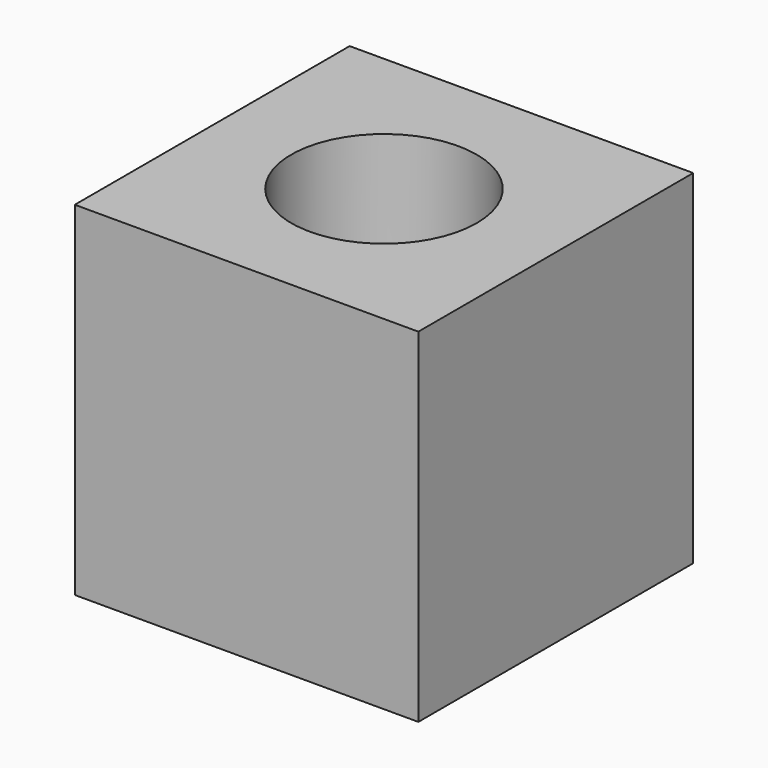
from build123d import *

# Parameters (mm, degrees)
CYLINDER002002001001001001001001006_R     = 1.35
CYLINDER002002001001001001001001006_DEPTH = 5
BOX005_W                                  = 5
BOX005_H                                  = 5
BOX005_DEPTH                              = 5


with BuildPart() as cylinder002002001001001001001001006:
    # Cylinder002002001001001001001001006 → Cylinder002002001001001001001001006 (new body)
    with BuildSketch(Plane(origin=(62.1, 27.9, 0), x_dir=(1, 0, 0), z_dir=(0, 0, 1))):
        Circle(CYLINDER002002001001001001001001006_R)
    extrude(amount=CYLINDER002002001001001001001001006_DEPTH)


with BuildPart() as cut013003020:
    # Box005 → Box005 (new body)
    with BuildSketch(Plane(origin=(59.6, 25.4, 0), x_dir=(1, 0, 0), z_dir=(0, 0, 1))):
        with Locations((2.5, 2.5)):
            Rectangle(BOX005_W, BOX005_H)
    extrude(amount=BOX005_DEPTH)

    # Cut013003020: cut Cylinder002002001001001001001001006
    add(cylinder002002001001001001001001006.part, mode=Mode.SUBTRACT)


solid = cut013003020.part
